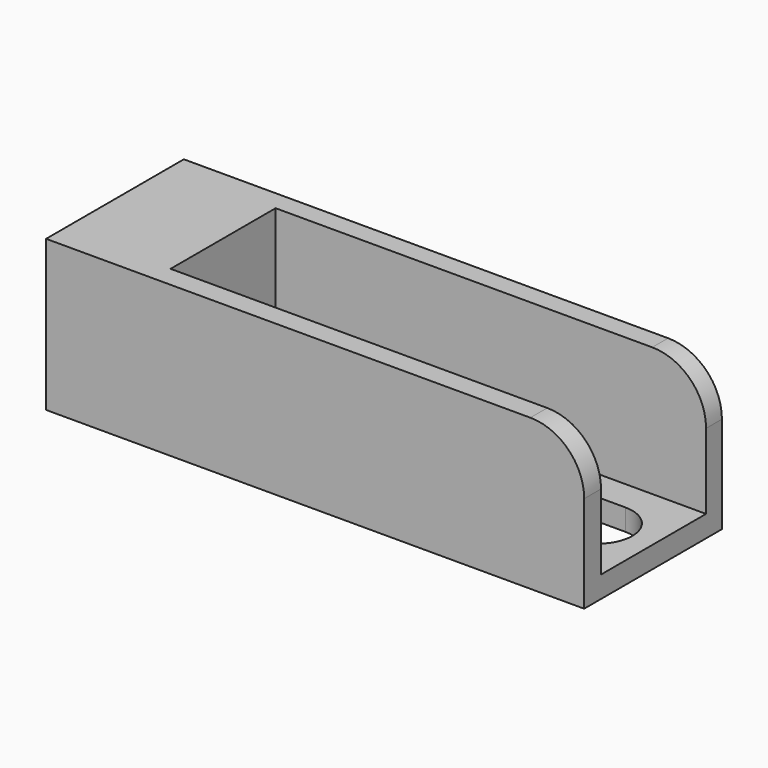
from build123d import *

# Parameters (mm, degrees)
SKETCH_W        = 50
SKETCH_H        = 16
PAD_DEPTH       = 14
SKETCH001_W     = 40
SKETCH001_H     = 12.2
POCKET_DEPTH    = 12
POCKET001_DEPTH = 5
FILLET_R        = 5


with BuildPart() as part:
    # Sketch → Pad (new body)
    with BuildSketch(Plane.XY):
        with Locations((25, 8)):
            Rectangle(SKETCH_W, SKETCH_H)
    extrude(amount=PAD_DEPTH)

    # Sketch001 (on Face6 of Pad) → Pocket (cut)
    with BuildSketch(Plane.XY.offset(14)):
        with Locations((30, 8.058537)):
            Rectangle(SKETCH001_W, SKETCH001_H)
    extrude(amount=-POCKET_DEPTH, mode=Mode.SUBTRACT)

    # Sketch002 (on Face8 of Pocket) → Pocket001 (cut)
    with BuildSketch(Plane.XY.offset(2)):
        with BuildLine():
            ThreePointArc((14.443499, 11.3), (11.243499, 8.1), (14.443499, 4.9))
            Line((14.443499, 4.9), (44.78962, 4.9))
            ThreePointArc((44.78962, 4.9), (47.98962, 8.1), (44.78962, 11.3))
            Line((14.443499, 11.3), (44.78962, 11.3))
        make_face()
    extrude(amount=-POCKET001_DEPTH, mode=Mode.SUBTRACT)

    # Fillet
    fillet_edges = [part.edges().sort_by_distance(p)[0] for p in [
        (50, 0.979269, 14),
        (50, 15.079269, 14),
    ]]
    fillet(fillet_edges, radius=FILLET_R)


solid = part.part
